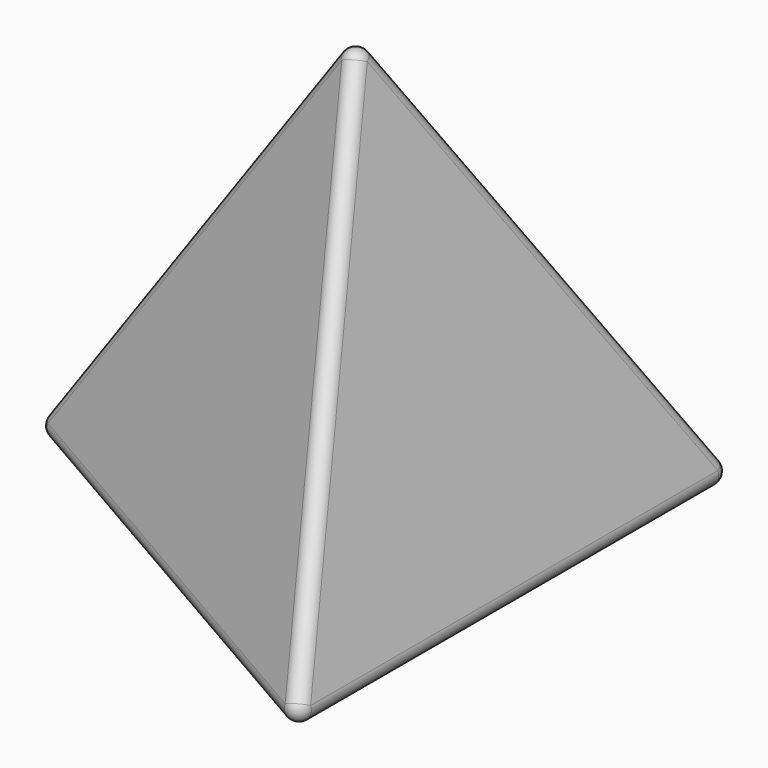
from build123d import *

# Parameters (mm, degrees)
F2_DEPTH = 25
F2_TAPER = 19.4712206345
F3_R     = 0.5


with BuildPart() as f2:
    # F1 (on Top) → F2 (new body)
    with BuildSketch(Plane.XY):
        Polygon((6.6666666667, -11.5470053838), (6.6666666667, 11.5470053838), (-13.3333333333, 0), align=None)
    extrude(amount=F2_DEPTH, taper=F2_TAPER)

    # F3
    f3_edges = [f2.edges().sort_by_distance(p)[0] for p in [
        (3.333333, -5.773502, 9.428092),
        (3.333332, 5.773501, 9.428093),
        (6.666667, 0, 0),
        (-6.666666, 0, 9.428092),
        (-3.333333, -5.773503, 0),
        (-3.333333, 5.773503, 0),
    ]]
    fillet(f3_edges, radius=F3_R)


solid = f2.part
